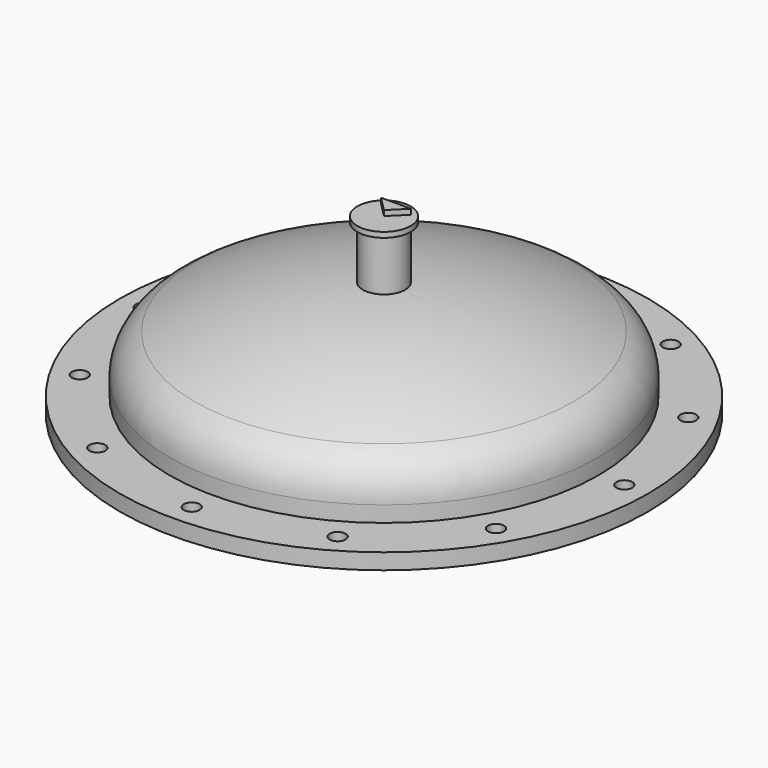
from build123d import *

# Parameters (mm, degrees)
F2_R          = 250
F2_R_2        = 200
F3_DEPTH      = 10
F3_DEPTH_BACK = 5
F4_R          = 7.5
F5_DEPTH      = 15
F7_R          = 20
F9_R          = 25.25
F10_DEPTH     = 5
F12_DEPTH     = 5


with BuildPart() as f1:
    # F0 (on Front) → F1 (revolve)
    with BuildSketch(Plane.XZ):
        with BuildLine():
            Line((200, 20), (200, 0))
            Line((200, 0), (203, 0))
            Line((203, 0), (203, 20))
            ThreePointArc((203, 20), (196.5493669363, 42.6526770285), (179.1328476019, 58.5088839444))
            ThreePointArc((179.1328476019, 58.5088839444), (92.0009441475, 89.9153591058), (0, 100.6000003082))
            Line((0, 100.6000003082), (0, 97.6))
            ThreePointArc((0, 97.6), (91.3153782925, 86.994742746), (177.7979977692, 55.8222176227))
            ThreePointArc((177.7979977692, 55.8222176227), (193.9994111035, 41.072257701), (200, 20))
        make_face()
    revolve(axis=Axis((0, 0, 99.1000001541), (0, 0, 1)))

    # F2 (on face) → F3 (join, two sides)
    with BuildSketch(Plane(origin=(0, 0, 0), x_dir=(1, 0, 0), z_dir=(0, 0, -1))) as f3_sk:
        Circle(F2_R)
        Circle(F2_R_2, mode=Mode.SUBTRACT)
    extrude(amount=F3_DEPTH)
    extrude(f3_sk.sketch, amount=-F3_DEPTH_BACK)

    # F4 (on face) → F5 (cut, through all)
    with BuildSketch(Plane.XY.offset(5)):
        with Locations((227.5, 0)):
            Circle(F4_R)
        with Locations((197.020779361, 113.75)):
            Circle(F4_R)
        with Locations((113.75, 197.020779361)):
            Circle(F4_R)
        with Locations((0, 227.5)):
            Circle(F4_R)
        with Locations((-113.75, 197.020779361)):
            Circle(F4_R)
        with Locations((-197.020779361, 113.75)):
            Circle(F4_R)
        with Locations((-227.5, 0)):
            Circle(F4_R)
        with Locations((-197.020779361, -113.75)):
            Circle(F4_R)
        with Locations((-113.75, -197.020779361)):
            Circle(F4_R)
        with Locations((0, -227.5)):
            Circle(F4_R)
        with Locations((113.75, -197.020779361)):
            Circle(F4_R)
        with Locations((197.020779361, -113.75)):
            Circle(F4_R)
    extrude(amount=-F5_DEPTH, mode=Mode.SUBTRACT)

    # F7 (on offset) → F8 (join, up to the next surface of F1)
    with BuildSketch(Plane.XY.offset(150)):
        Circle(F7_R)
    extrude(until=Until.NEXT, dir=(0, 0, -1))

    # F9 (on face) → F10 (join)
    with BuildSketch(Plane.XY.offset(150)):
        Circle(F9_R)
    extrude(amount=F10_DEPTH)

    # F11 (on face) → F12 (join)
    with BuildSketch(Plane.XY.offset(155)):
        Polygon((-14.1421356237, 14.1421356237), (0, 0), (14.1421356237, 14.1421356237), align=None)
    extrude(amount=F12_DEPTH)


solid = f1.part
